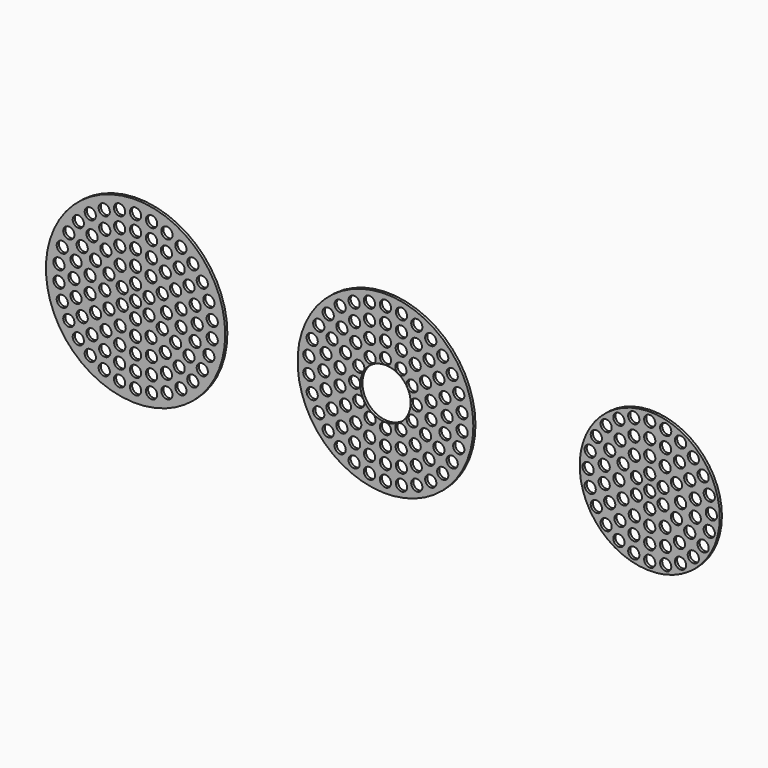
from build123d import *

# Parameters (mm, degrees)
F0_R     = 50.8
F0_R_2   = 3.175
F0_R_3   = 49.784
F0_R_4   = 14.2748
F0_R_5   = 39.6875
F1_DEPTH = 1.524


with BuildPart() as f1:
    # F0 (on Front) → F1 (new body)
    with BuildSketch(Plane.XZ):
        with Locations((-141.586319, 0)):
            Circle(F0_R)
        with Locations((-150.662963, -42.702256)):
            Circle(F0_R_2, mode=Mode.SUBTRACT)
        with Locations((-159.342915, -39.881969)):
            Circle(F0_R_2, mode=Mode.SUBTRACT)
        with Locations((-141.586319, -43.65625)):
            Circle(F0_R_2, mode=Mode.SUBTRACT)
        with Locations((-132.509674, -42.702256)):
            Circle(F0_R_2, mode=Mode.SUBTRACT)
        with Locations((-123.829722, -39.881969)):
            Circle(F0_R_2, mode=Mode.SUBTRACT)
        with Locations((-167.246819, -35.318648)):
            Circle(F0_R_2, mode=Mode.SUBTRACT)
        with Locations((-150.625574, -33.734959)):
            Circle(F0_R_2, mode=Mode.SUBTRACT)
        with Locations((-174.029235, -29.211733)):
            Circle(F0_R_2, mode=Mode.SUBTRACT)
        with Locations((-159.048819, -30.245937)):
            Circle(F0_R_2, mode=Mode.SUBTRACT)
        with Locations((-141.586319, -34.925)):
            Circle(F0_R_2, mode=Mode.SUBTRACT)
        with Locations((-132.547063, -33.734959)):
            Circle(F0_R_2, mode=Mode.SUBTRACT)
        with Locations((-115.925819, -35.318648)):
            Circle(F0_R_2, mode=Mode.SUBTRACT)
        with Locations((-124.123819, -30.245937)):
            Circle(F0_R_2, mode=Mode.SUBTRACT)
        with Locations((-141.586319, -26.19375)):
            Circle(F0_R_2, mode=Mode.SUBTRACT)
        with Locations((-109.143402, -29.211733)):
            Circle(F0_R_2, mode=Mode.SUBTRACT)
        with Locations((-179.39374, -21.828125)):
            Circle(F0_R_2, mode=Mode.SUBTRACT)
        with Locations((-166.282023, -24.695704)):
            Circle(F0_R_2, mode=Mode.SUBTRACT)
        with Locations((-150.545109, -24.614074)):
            Circle(F0_R_2, mode=Mode.SUBTRACT)
        with Locations((-158.423337, -20.065577)):
            Circle(F0_R_2, mode=Mode.SUBTRACT)
        with Locations((-171.832256, -17.4625)):
            Circle(F0_R_2, mode=Mode.SUBTRACT)
        with Locations((-183.10588, -13.490523)):
            Circle(F0_R_2, mode=Mode.SUBTRACT)
        with Locations((-164.270772, -13.096875)):
            Circle(F0_R_2, mode=Mode.SUBTRACT)
        with Locations((-150.317569, -15.122969)):
            Circle(F0_R_2, mode=Mode.SUBTRACT)
        with Locations((-132.627528, -24.614074)):
            Circle(F0_R_2, mode=Mode.SUBTRACT)
        with Locations((-124.749301, -20.065577)):
            Circle(F0_R_2, mode=Mode.SUBTRACT)
        with Locations((-116.890614, -24.695704)):
            Circle(F0_R_2, mode=Mode.SUBTRACT)
        with Locations((-103.778897, -21.828125)):
            Circle(F0_R_2, mode=Mode.SUBTRACT)
        with Locations((-141.586319, -17.4625)):
            Circle(F0_R_2, mode=Mode.SUBTRACT)
        with Locations((-132.855069, -15.122969)):
            Circle(F0_R_2, mode=Mode.SUBTRACT)
        with Locations((-111.340381, -17.4625)):
            Circle(F0_R_2, mode=Mode.SUBTRACT)
        with Locations((-118.901866, -13.096875)):
            Circle(F0_R_2, mode=Mode.SUBTRACT)
        with Locations((-100.066758, -13.490523)):
            Circle(F0_R_2, mode=Mode.SUBTRACT)
        with Locations((-175.321278, -9.039255)):
            Circle(F0_R_2, mode=Mode.SUBTRACT)
        with Locations((-156.709287, -8.73125)):
            Circle(F0_R_2, mode=Mode.SUBTRACT)
        with Locations((-185.003415, -4.563321)):
            Circle(F0_R_2, mode=Mode.SUBTRACT)
        with Locations((-176.511319, 0)):
            Circle(F0_R_2, mode=Mode.SUBTRACT)
        with Locations((-167.382127, -4.548497)):
            Circle(F0_R_2, mode=Mode.SUBTRACT)
        with Locations((-149.147803, -4.365625)):
            Circle(F0_R_2, mode=Mode.SUBTRACT)
        with Locations((-159.048819, 0)):
            Circle(F0_R_2, mode=Mode.SUBTRACT)
        with Locations((-141.586319, -8.73125)):
            Circle(F0_R_2, mode=Mode.SUBTRACT)
        with Locations((-126.46335, -8.73125)):
            Circle(F0_R_2, mode=Mode.SUBTRACT)
        with Locations((-107.851359, -9.039255)):
            Circle(F0_R_2, mode=Mode.SUBTRACT)
        with Locations((-134.024834, -4.365625)):
            Circle(F0_R_2, mode=Mode.SUBTRACT)
        with Locations((-141.586319, 0)):
            Circle(F0_R_2, mode=Mode.SUBTRACT)
        with Locations((-124.123819, 0)):
            Circle(F0_R_2, mode=Mode.SUBTRACT)
        with Locations((-115.790511, -4.548497)):
            Circle(F0_R_2, mode=Mode.SUBTRACT)
        with Locations((-98.169222, -4.563321)):
            Circle(F0_R_2, mode=Mode.SUBTRACT)
        with Locations((-106.661319, 0)):
            Circle(F0_R_2, mode=Mode.SUBTRACT)
        with Locations((-185.003415, 4.563321)):
            Circle(F0_R_2, mode=Mode.SUBTRACT)
        with Locations((-167.382127, 4.548497)):
            Circle(F0_R_2, mode=Mode.SUBTRACT)
        with Locations((-149.147803, 4.365625)):
            Circle(F0_R_2, mode=Mode.SUBTRACT)
        with Locations((-175.321278, 9.039255)):
            Circle(F0_R_2, mode=Mode.SUBTRACT)
        with Locations((-156.709287, 8.73125)):
            Circle(F0_R_2, mode=Mode.SUBTRACT)
        with Locations((-134.024834, 4.365625)):
            Circle(F0_R_2, mode=Mode.SUBTRACT)
        with Locations((-115.790511, 4.548497)):
            Circle(F0_R_2, mode=Mode.SUBTRACT)
        with Locations((-98.169222, 4.563321)):
            Circle(F0_R_2, mode=Mode.SUBTRACT)
        with Locations((-141.586319, 8.73125)):
            Circle(F0_R_2, mode=Mode.SUBTRACT)
        with Locations((-126.46335, 8.73125)):
            Circle(F0_R_2, mode=Mode.SUBTRACT)
        with Locations((-107.851359, 9.039255)):
            Circle(F0_R_2, mode=Mode.SUBTRACT)
        with Locations((-183.10588, 13.490523)):
            Circle(F0_R_2, mode=Mode.SUBTRACT)
        with Locations((-171.832256, 17.4625)):
            Circle(F0_R_2, mode=Mode.SUBTRACT)
        with Locations((-164.270772, 13.096875)):
            Circle(F0_R_2, mode=Mode.SUBTRACT)
        with Locations((-150.317569, 15.122969)):
            Circle(F0_R_2, mode=Mode.SUBTRACT)
        with Locations((-179.39374, 21.828125)):
            Circle(F0_R_2, mode=Mode.SUBTRACT)
        with Locations((-158.423337, 20.065577)):
            Circle(F0_R_2, mode=Mode.SUBTRACT)
        with Locations((-166.282023, 24.695704)):
            Circle(F0_R_2, mode=Mode.SUBTRACT)
        with Locations((-150.545109, 24.614074)):
            Circle(F0_R_2, mode=Mode.SUBTRACT)
        with Locations((-132.855069, 15.122969)):
            Circle(F0_R_2, mode=Mode.SUBTRACT)
        with Locations((-141.586319, 17.4625)):
            Circle(F0_R_2, mode=Mode.SUBTRACT)
        with Locations((-118.901866, 13.096875)):
            Circle(F0_R_2, mode=Mode.SUBTRACT)
        with Locations((-100.066758, 13.490523)):
            Circle(F0_R_2, mode=Mode.SUBTRACT)
        with Locations((-111.340381, 17.4625)):
            Circle(F0_R_2, mode=Mode.SUBTRACT)
        with Locations((-124.749301, 20.065577)):
            Circle(F0_R_2, mode=Mode.SUBTRACT)
        with Locations((-132.627528, 24.614074)):
            Circle(F0_R_2, mode=Mode.SUBTRACT)
        with Locations((-103.778897, 21.828125)):
            Circle(F0_R_2, mode=Mode.SUBTRACT)
        with Locations((-116.890614, 24.695704)):
            Circle(F0_R_2, mode=Mode.SUBTRACT)
        with Locations((-174.029235, 29.211733)):
            Circle(F0_R_2, mode=Mode.SUBTRACT)
        with Locations((-159.048819, 30.245937)):
            Circle(F0_R_2, mode=Mode.SUBTRACT)
        with Locations((-150.625574, 33.734959)):
            Circle(F0_R_2, mode=Mode.SUBTRACT)
        with Locations((-167.246819, 35.318648)):
            Circle(F0_R_2, mode=Mode.SUBTRACT)
        with Locations((-141.586319, 26.19375)):
            Circle(F0_R_2, mode=Mode.SUBTRACT)
        with Locations((-124.123819, 30.245937)):
            Circle(F0_R_2, mode=Mode.SUBTRACT)
        with Locations((-109.143402, 29.211733)):
            Circle(F0_R_2, mode=Mode.SUBTRACT)
        with Locations((-141.586319, 34.925)):
            Circle(F0_R_2, mode=Mode.SUBTRACT)
        with Locations((-132.547063, 33.734959)):
            Circle(F0_R_2, mode=Mode.SUBTRACT)
        with Locations((-115.925819, 35.318648)):
            Circle(F0_R_2, mode=Mode.SUBTRACT)
        with Locations((-159.342915, 39.881969)):
            Circle(F0_R_2, mode=Mode.SUBTRACT)
        with Locations((-150.662963, 42.702256)):
            Circle(F0_R_2, mode=Mode.SUBTRACT)
        with Locations((-123.829722, 39.881969)):
            Circle(F0_R_2, mode=Mode.SUBTRACT)
        with Locations((-141.586319, 43.65625)):
            Circle(F0_R_2, mode=Mode.SUBTRACT)
        with Locations((-132.509674, 42.702256)):
            Circle(F0_R_2, mode=Mode.SUBTRACT)
        Circle(F0_R_3)
        with Locations((-9.076645, -42.702256)):
            Circle(F0_R_2, mode=Mode.SUBTRACT)
        with Locations((-17.756597, -39.881969)):
            Circle(F0_R_2, mode=Mode.SUBTRACT)
        with Locations((-25.6605, -35.318648)):
            Circle(F0_R_2, mode=Mode.SUBTRACT)
        with Locations((-9.039255, -33.734959)):
            Circle(F0_R_2, mode=Mode.SUBTRACT)
        with Locations((-32.442916, -29.211733)):
            Circle(F0_R_2, mode=Mode.SUBTRACT)
        with Locations((-17.4625, -30.245937)):
            Circle(F0_R_2, mode=Mode.SUBTRACT)
        with Locations((-37.807422, -21.828125)):
            Circle(F0_R_2, mode=Mode.SUBTRACT)
        with Locations((-24.695704, -24.695704)):
            Circle(F0_R_2, mode=Mode.SUBTRACT)
        with Locations((-8.95879, -24.614074)):
            Circle(F0_R_2, mode=Mode.SUBTRACT)
        with Locations((-16.837018, -20.065577)):
            Circle(F0_R_2, mode=Mode.SUBTRACT)
        with Locations((-30.245937, -17.4625)):
            Circle(F0_R_2, mode=Mode.SUBTRACT)
        with Locations((-41.519561, -13.490523)):
            Circle(F0_R_2, mode=Mode.SUBTRACT)
        with Locations((-22.684453, -13.096875)):
            Circle(F0_R_2, mode=Mode.SUBTRACT)
        with Locations((-8.73125, -15.122969)):
            Circle(F0_R_2, mode=Mode.SUBTRACT)
        with Locations((-33.734959, -9.039255)):
            Circle(F0_R_2, mode=Mode.SUBTRACT)
        with Locations((-15.122969, -8.73125)):
            Circle(F0_R_2, mode=Mode.SUBTRACT)
        with Locations((-43.417096, -4.563321)):
            Circle(F0_R_2, mode=Mode.SUBTRACT)
        with Locations((-25.795808, -4.548497)):
            Circle(F0_R_2, mode=Mode.SUBTRACT)
        with Locations((-34.925, 0)):
            Circle(F0_R_2, mode=Mode.SUBTRACT)
        with Locations((-17.4625, 0)):
            Circle(F0_R_2, mode=Mode.SUBTRACT)
        with Locations((0, -43.65625)):
            Circle(F0_R_2, mode=Mode.SUBTRACT)
        with Locations((9.076645, -42.702256)):
            Circle(F0_R_2, mode=Mode.SUBTRACT)
        with Locations((17.756597, -39.881969)):
            Circle(F0_R_2, mode=Mode.SUBTRACT)
        with Locations((0, -34.925)):
            Circle(F0_R_2, mode=Mode.SUBTRACT)
        with Locations((9.039255, -33.734959)):
            Circle(F0_R_2, mode=Mode.SUBTRACT)
        with Locations((25.6605, -35.318648)):
            Circle(F0_R_2, mode=Mode.SUBTRACT)
        with Locations((17.4625, -30.245937)):
            Circle(F0_R_2, mode=Mode.SUBTRACT)
        with Locations((0, -26.19375)):
            Circle(F0_R_2, mode=Mode.SUBTRACT)
        with Locations((32.442916, -29.211733)):
            Circle(F0_R_2, mode=Mode.SUBTRACT)
        with Locations((8.95879, -24.614074)):
            Circle(F0_R_2, mode=Mode.SUBTRACT)
        with Locations((16.837018, -20.065577)):
            Circle(F0_R_2, mode=Mode.SUBTRACT)
        with Locations((24.695704, -24.695704)):
            Circle(F0_R_2, mode=Mode.SUBTRACT)
        with Locations((37.807422, -21.828125)):
            Circle(F0_R_2, mode=Mode.SUBTRACT)
        with Locations((0, -17.4625)):
            Circle(F0_R_2, mode=Mode.SUBTRACT)
        with Locations((8.73125, -15.122969)):
            Circle(F0_R_2, mode=Mode.SUBTRACT)
        with Locations((30.245937, -17.4625)):
            Circle(F0_R_2, mode=Mode.SUBTRACT)
        with Locations((22.684453, -13.096875)):
            Circle(F0_R_2, mode=Mode.SUBTRACT)
        with Locations((41.519561, -13.490523)):
            Circle(F0_R_2, mode=Mode.SUBTRACT)
        with Locations((15.122969, -8.73125)):
            Circle(F0_R_2, mode=Mode.SUBTRACT)
        with Locations((33.734959, -9.039255)):
            Circle(F0_R_2, mode=Mode.SUBTRACT)
        Circle(F0_R_4, mode=Mode.SUBTRACT)
        with Locations((17.4625, 0)):
            Circle(F0_R_2, mode=Mode.SUBTRACT)
        with Locations((25.795808, -4.548497)):
            Circle(F0_R_2, mode=Mode.SUBTRACT)
        with Locations((43.417096, -4.563321)):
            Circle(F0_R_2, mode=Mode.SUBTRACT)
        with Locations((34.925, 0)):
            Circle(F0_R_2, mode=Mode.SUBTRACT)
        with Locations((-43.417096, 4.563321)):
            Circle(F0_R_2, mode=Mode.SUBTRACT)
        with Locations((-25.795808, 4.548497)):
            Circle(F0_R_2, mode=Mode.SUBTRACT)
        with Locations((-33.734959, 9.039255)):
            Circle(F0_R_2, mode=Mode.SUBTRACT)
        with Locations((-15.122969, 8.73125)):
            Circle(F0_R_2, mode=Mode.SUBTRACT)
        with Locations((-41.519561, 13.490523)):
            Circle(F0_R_2, mode=Mode.SUBTRACT)
        with Locations((-30.245937, 17.4625)):
            Circle(F0_R_2, mode=Mode.SUBTRACT)
        with Locations((-22.684453, 13.096875)):
            Circle(F0_R_2, mode=Mode.SUBTRACT)
        with Locations((-8.73125, 15.122969)):
            Circle(F0_R_2, mode=Mode.SUBTRACT)
        with Locations((-37.807422, 21.828125)):
            Circle(F0_R_2, mode=Mode.SUBTRACT)
        with Locations((-16.837018, 20.065577)):
            Circle(F0_R_2, mode=Mode.SUBTRACT)
        with Locations((-24.695704, 24.695704)):
            Circle(F0_R_2, mode=Mode.SUBTRACT)
        with Locations((-8.95879, 24.614074)):
            Circle(F0_R_2, mode=Mode.SUBTRACT)
        with Locations((-32.442916, 29.211733)):
            Circle(F0_R_2, mode=Mode.SUBTRACT)
        with Locations((-17.4625, 30.245937)):
            Circle(F0_R_2, mode=Mode.SUBTRACT)
        with Locations((-25.6605, 35.318648)):
            Circle(F0_R_2, mode=Mode.SUBTRACT)
        with Locations((-9.039255, 33.734959)):
            Circle(F0_R_2, mode=Mode.SUBTRACT)
        with Locations((-17.756597, 39.881969)):
            Circle(F0_R_2, mode=Mode.SUBTRACT)
        with Locations((-9.076645, 42.702256)):
            Circle(F0_R_2, mode=Mode.SUBTRACT)
        with Locations((25.795808, 4.548497)):
            Circle(F0_R_2, mode=Mode.SUBTRACT)
        with Locations((43.417096, 4.563321)):
            Circle(F0_R_2, mode=Mode.SUBTRACT)
        with Locations((15.122969, 8.73125)):
            Circle(F0_R_2, mode=Mode.SUBTRACT)
        with Locations((33.734959, 9.039255)):
            Circle(F0_R_2, mode=Mode.SUBTRACT)
        with Locations((8.73125, 15.122969)):
            Circle(F0_R_2, mode=Mode.SUBTRACT)
        with Locations((0, 17.4625)):
            Circle(F0_R_2, mode=Mode.SUBTRACT)
        with Locations((22.684453, 13.096875)):
            Circle(F0_R_2, mode=Mode.SUBTRACT)
        with Locations((41.519561, 13.490523)):
            Circle(F0_R_2, mode=Mode.SUBTRACT)
        with Locations((30.245937, 17.4625)):
            Circle(F0_R_2, mode=Mode.SUBTRACT)
        with Locations((16.837018, 20.065577)):
            Circle(F0_R_2, mode=Mode.SUBTRACT)
        with Locations((8.95879, 24.614074)):
            Circle(F0_R_2, mode=Mode.SUBTRACT)
        with Locations((37.807422, 21.828125)):
            Circle(F0_R_2, mode=Mode.SUBTRACT)
        with Locations((24.695704, 24.695704)):
            Circle(F0_R_2, mode=Mode.SUBTRACT)
        with Locations((0, 26.19375)):
            Circle(F0_R_2, mode=Mode.SUBTRACT)
        with Locations((17.4625, 30.245937)):
            Circle(F0_R_2, mode=Mode.SUBTRACT)
        with Locations((32.442916, 29.211733)):
            Circle(F0_R_2, mode=Mode.SUBTRACT)
        with Locations((0, 34.925)):
            Circle(F0_R_2, mode=Mode.SUBTRACT)
        with Locations((9.039255, 33.734959)):
            Circle(F0_R_2, mode=Mode.SUBTRACT)
        with Locations((25.6605, 35.318648)):
            Circle(F0_R_2, mode=Mode.SUBTRACT)
        with Locations((17.756597, 39.881969)):
            Circle(F0_R_2, mode=Mode.SUBTRACT)
        with Locations((9.076645, 42.702256)):
            Circle(F0_R_2, mode=Mode.SUBTRACT)
        with Locations((0, 43.65625)):
            Circle(F0_R_2, mode=Mode.SUBTRACT)
        with Locations((149.729885, 0)):
            Circle(F0_R_5)
        with Locations((140.69063, -33.734959)):
            Circle(F0_R_2, mode=Mode.SUBTRACT)
        with Locations((132.267385, -30.245937)):
            Circle(F0_R_2, mode=Mode.SUBTRACT)
        with Locations((149.729885, -34.925)):
            Circle(F0_R_2, mode=Mode.SUBTRACT)
        with Locations((158.76914, -33.734959)):
            Circle(F0_R_2, mode=Mode.SUBTRACT)
        with Locations((149.729885, -26.19375)):
            Circle(F0_R_2, mode=Mode.SUBTRACT)
        with Locations((167.192385, -30.245937)):
            Circle(F0_R_2, mode=Mode.SUBTRACT)
        with Locations((125.034181, -24.695704)):
            Circle(F0_R_2, mode=Mode.SUBTRACT)
        with Locations((140.771095, -24.614074)):
            Circle(F0_R_2, mode=Mode.SUBTRACT)
        with Locations((132.892867, -20.065577)):
            Circle(F0_R_2, mode=Mode.SUBTRACT)
        with Locations((119.483948, -17.4625)):
            Circle(F0_R_2, mode=Mode.SUBTRACT)
        with Locations((127.045432, -13.096875)):
            Circle(F0_R_2, mode=Mode.SUBTRACT)
        with Locations((140.998635, -15.122969)):
            Circle(F0_R_2, mode=Mode.SUBTRACT)
        with Locations((158.688675, -24.614074)):
            Circle(F0_R_2, mode=Mode.SUBTRACT)
        with Locations((174.42559, -24.695704)):
            Circle(F0_R_2, mode=Mode.SUBTRACT)
        with Locations((166.566903, -20.065577)):
            Circle(F0_R_2, mode=Mode.SUBTRACT)
        with Locations((149.729885, -17.4625)):
            Circle(F0_R_2, mode=Mode.SUBTRACT)
        with Locations((158.461135, -15.122969)):
            Circle(F0_R_2, mode=Mode.SUBTRACT)
        with Locations((179.975823, -17.4625)):
            Circle(F0_R_2, mode=Mode.SUBTRACT)
        with Locations((172.414338, -13.096875)):
            Circle(F0_R_2, mode=Mode.SUBTRACT)
        with Locations((115.994926, -9.039255)):
            Circle(F0_R_2, mode=Mode.SUBTRACT)
        with Locations((134.606917, -8.73125)):
            Circle(F0_R_2, mode=Mode.SUBTRACT)
        with Locations((114.804885, 0)):
            Circle(F0_R_2, mode=Mode.SUBTRACT)
        with Locations((123.934077, -4.548497)):
            Circle(F0_R_2, mode=Mode.SUBTRACT)
        with Locations((132.267385, 0)):
            Circle(F0_R_2, mode=Mode.SUBTRACT)
        with Locations((149.729885, -8.73125)):
            Circle(F0_R_2, mode=Mode.SUBTRACT)
        with Locations((164.852854, -8.73125)):
            Circle(F0_R_2, mode=Mode.SUBTRACT)
        with Locations((183.464845, -9.039255)):
            Circle(F0_R_2, mode=Mode.SUBTRACT)
        with Locations((142.168401, -4.365625)):
            Circle(F0_R_2, mode=Mode.SUBTRACT)
        with Locations((157.29137, -4.365625)):
            Circle(F0_R_2, mode=Mode.SUBTRACT)
        with Locations((149.729885, 0)):
            Circle(F0_R_2, mode=Mode.SUBTRACT)
        with Locations((175.525693, -4.548497)):
            Circle(F0_R_2, mode=Mode.SUBTRACT)
        with Locations((167.192385, 0)):
            Circle(F0_R_2, mode=Mode.SUBTRACT)
        with Locations((184.654885, 0)):
            Circle(F0_R_2, mode=Mode.SUBTRACT)
        with Locations((123.934077, 4.548497)):
            Circle(F0_R_2, mode=Mode.SUBTRACT)
        with Locations((115.994926, 9.039255)):
            Circle(F0_R_2, mode=Mode.SUBTRACT)
        with Locations((134.606917, 8.73125)):
            Circle(F0_R_2, mode=Mode.SUBTRACT)
        with Locations((142.168401, 4.365625)):
            Circle(F0_R_2, mode=Mode.SUBTRACT)
        with Locations((157.29137, 4.365625)):
            Circle(F0_R_2, mode=Mode.SUBTRACT)
        with Locations((175.525693, 4.548497)):
            Circle(F0_R_2, mode=Mode.SUBTRACT)
        with Locations((149.729885, 8.73125)):
            Circle(F0_R_2, mode=Mode.SUBTRACT)
        with Locations((164.852854, 8.73125)):
            Circle(F0_R_2, mode=Mode.SUBTRACT)
        with Locations((183.464845, 9.039255)):
            Circle(F0_R_2, mode=Mode.SUBTRACT)
        with Locations((127.045432, 13.096875)):
            Circle(F0_R_2, mode=Mode.SUBTRACT)
        with Locations((140.998635, 15.122969)):
            Circle(F0_R_2, mode=Mode.SUBTRACT)
        with Locations((119.483948, 17.4625)):
            Circle(F0_R_2, mode=Mode.SUBTRACT)
        with Locations((132.892867, 20.065577)):
            Circle(F0_R_2, mode=Mode.SUBTRACT)
        with Locations((125.034181, 24.695704)):
            Circle(F0_R_2, mode=Mode.SUBTRACT)
        with Locations((140.771095, 24.614074)):
            Circle(F0_R_2, mode=Mode.SUBTRACT)
        with Locations((158.461135, 15.122969)):
            Circle(F0_R_2, mode=Mode.SUBTRACT)
        with Locations((149.729885, 17.4625)):
            Circle(F0_R_2, mode=Mode.SUBTRACT)
        with Locations((172.414338, 13.096875)):
            Circle(F0_R_2, mode=Mode.SUBTRACT)
        with Locations((179.975823, 17.4625)):
            Circle(F0_R_2, mode=Mode.SUBTRACT)
        with Locations((158.688675, 24.614074)):
            Circle(F0_R_2, mode=Mode.SUBTRACT)
        with Locations((166.566903, 20.065577)):
            Circle(F0_R_2, mode=Mode.SUBTRACT)
        with Locations((174.42559, 24.695704)):
            Circle(F0_R_2, mode=Mode.SUBTRACT)
        with Locations((132.267385, 30.245937)):
            Circle(F0_R_2, mode=Mode.SUBTRACT)
        with Locations((140.69063, 33.734959)):
            Circle(F0_R_2, mode=Mode.SUBTRACT)
        with Locations((149.729885, 26.19375)):
            Circle(F0_R_2, mode=Mode.SUBTRACT)
        with Locations((167.192385, 30.245937)):
            Circle(F0_R_2, mode=Mode.SUBTRACT)
        with Locations((149.729885, 34.925)):
            Circle(F0_R_2, mode=Mode.SUBTRACT)
        with Locations((158.76914, 33.734959)):
            Circle(F0_R_2, mode=Mode.SUBTRACT)
    extrude(amount=F1_DEPTH)


solid = f1.part
